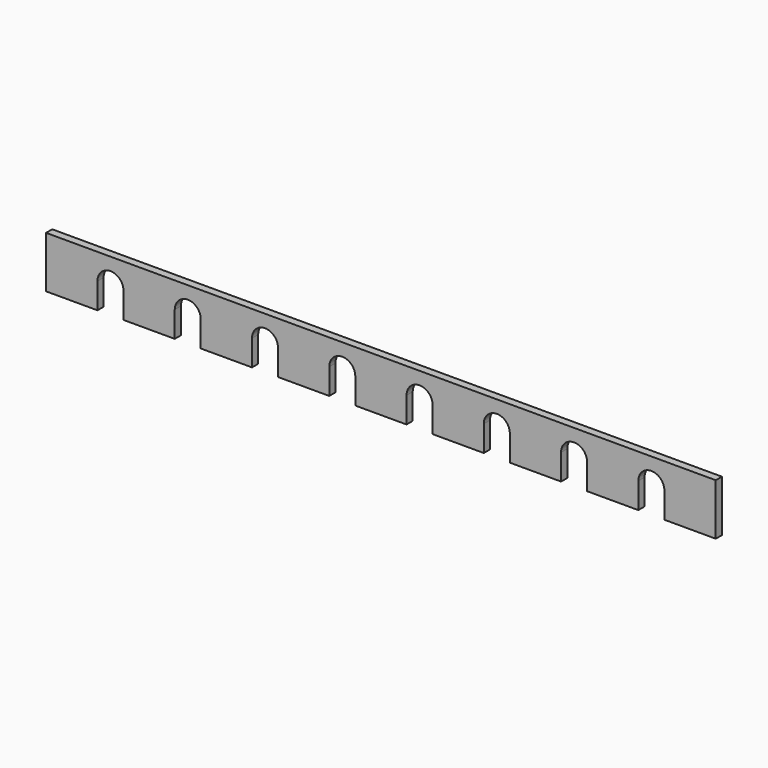
from build123d import *

# Parameters (mm, degrees)
F1_DEPTH = 3


with BuildPart() as f1:
    # F0 (on Front) → F1 (new body)
    with BuildSketch(Plane.XZ):
        with BuildLine():
            Line((130, -10), (130, 10))
            Line((130, 10), (-130, 10))
            Line((-130, 10), (-130, -10))
            Line((-130, -10), (-110.05, -10))
            Line((-110.05, -10), (-110.05, 0))
            ThreePointArc((-110.05, 0), (-105, 5.05), (-99.95, 0))
            Line((-99.95, 0), (-99.95, -10))
            Line((-99.95, -10), (-80.05, -10))
            Line((-80.05, -10), (-80.05, 0))
            ThreePointArc((-80.05, 0), (-75, 5.05), (-69.95, 0))
            Line((-69.95, 0), (-69.95, -10))
            Line((-69.95, -10), (-50.05, -10))
            Line((-50.05, -10), (-50.05, 0))
            ThreePointArc((-50.05, 0), (-45, 5.05), (-39.95, 0))
            Line((-39.95, 0), (-39.95, -10))
            Line((-39.95, -10), (-20.05, -10))
            Line((-20.05, -10), (-20.05, 0))
            ThreePointArc((-20.05, 0), (-15, 5.05), (-9.95, 0))
            Line((-9.95, 0), (-9.95, -10))
            Line((-9.95, -10), (9.95, -10))
            Line((9.95, -10), (9.95, 0))
            ThreePointArc((9.95, 0), (15, 5.05), (20.05, 0))
            Line((20.05, 0), (20.05, -10))
            Line((20.05, -10), (39.95, -10))
            Line((39.95, -10), (39.95, 0))
            ThreePointArc((39.95, 0), (45, 5.05), (50.05, 0))
            Line((50.05, 0), (50.05, -10))
            Line((50.05, -10), (69.95, -10))
            Line((69.95, -10), (69.95, 0))
            ThreePointArc((69.95, 0), (75, 5.05), (80.05, 0))
            Line((80.05, 0), (80.05, -10))
            Line((80.05, -10), (99.95, -10))
            Line((99.95, -10), (99.95, 0))
            ThreePointArc((99.95, 0), (105, 5.05), (110.05, 0))
            Line((110.05, 0), (110.05, -10))
            Line((110.05, -10), (130, -10))
        make_face()
    extrude(amount=F1_DEPTH)


solid = f1.part
